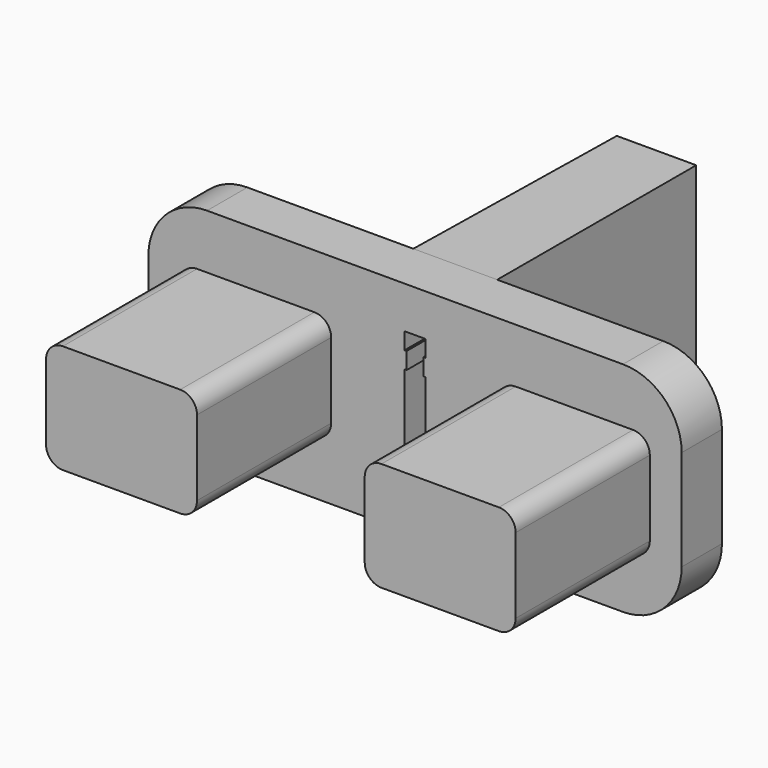
from build123d import *

# Parameters (mm, degrees)
SKETCH_W     = 31.8
SKETCH_H     = 13
PAD_DEPTH    = 3
SKETCH001_W  = 9
SKETCH001_H  = 6.5
PAD001_DEPTH = 10
SKETCH002_W  = 5
SKETCH002_H  = 13
PAD002_DEPTH = 15
PAD002_TAPER = 0.5
POCKET_DEPTH = 28.001
FILLET_R     = 3.5
FILLET001_R  = 1


with BuildPart() as part:
    # Sketch → Pad (new body)
    with BuildSketch(Plane.XZ):
        Rectangle(SKETCH_W, SKETCH_H)
    extrude(amount=PAD_DEPTH)

    # Sketch001 (on Face6 of Pad) → Pad001 (join)
    with BuildSketch(Plane.XZ.offset(3)):
        with Locations((-9.5, 0)):
            Rectangle(SKETCH001_W, SKETCH001_H)
        with Locations((9.5, 0)):
            Rectangle(SKETCH001_W, SKETCH001_H)
    extrude(amount=PAD001_DEPTH)

    # Sketch002 (on Face4 of Pad001) → Pad002 (join)
    with BuildSketch(Plane(origin=(0, 0, 0), x_dir=(1, 0, 0), z_dir=(0, 1, 0))):
        Rectangle(SKETCH002_W, SKETCH002_H)
    extrude(amount=PAD002_DEPTH, taper=PAD002_TAPER)

    # Sketch003 (on Face10 of Pad002) → Pocket (cut, through all)
    with BuildSketch(Plane(origin=(0, 15, 0), x_dir=(1, 0, 0), z_dir=(0, 1, 0))):
        Polygon((-0.625, -4), (0.625, -4), (0.625, -3), (0.5, -3), (0.5, -2), (0.625, -2), (0.625, 2), (0.5, 2), (0.5, 3), (0.625, 3), (0.625, 4), (-0.625, 4), (-0.625, 3), (-0.499997, 3), (-0.5, 2), (-0.625, 2), (-0.625, -2), (-0.5, -2), (-0.5, -3), (-0.625, -3), align=None)
    extrude(amount=-POCKET_DEPTH, mode=Mode.SUBTRACT)

    # Fillet
    fillet_edges = [part.edges().sort_by_distance(p)[0] for p in [
        (15.9, -1.5, -6.5),
        (-15.9, -1.5, -6.5),
        (-15.9, -1.5, 6.5),
        (15.9, -1.5, 6.5),
    ]]
    fillet(fillet_edges, radius=FILLET_R)

    # Fillet001
    fillet001_edges = [part.edges().sort_by_distance(p)[0] for p in [
        (-14, -8, -3.25),
        (-14, -8, 3.25),
        (-5, -8, -3.25),
        (5, -8, -3.25),
        (14, -8, -3.25),
        (-5, -8, 3.25),
        (5, -8, 3.25),
        (14, -8, 3.25),
    ]]
    fillet(fillet001_edges, radius=FILLET001_R)


solid = part.part
